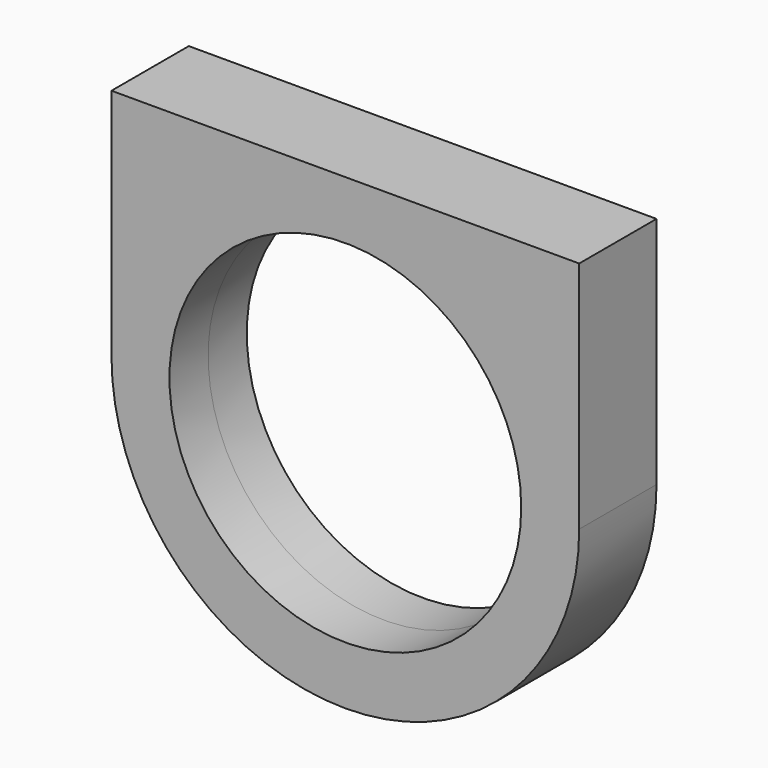
from build123d import *

# Parameters (mm, degrees)
F0_R     = 9.1
F1_DEPTH = 2.5


with BuildPart() as f1:
    # F0 (on Front) → F1 (new body)
    with BuildSketch(Plane.XZ):
        with BuildLine():
            ThreePointArc((0, 12.1), (-8.555992, 8.555992), (-12.1, 0))
            ThreePointArc((-12.1, 0), (0, -12.1), (12.1, 0))
            ThreePointArc((12.1, 0), (8.555992, 8.555992), (0, 12.1))
        make_face()
        Circle(F0_R, mode=Mode.SUBTRACT)
        with BuildLine():
            Line((-12.1, 12.1), (-12.1, 0))
            ThreePointArc((-12.1, 0), (-8.555992, 8.555992), (0, 12.1))
            Line((0, 12.1), (-12.1, 12.1))
        make_face()
        with BuildLine():
            ThreePointArc((0, 12.1), (8.555992, 8.555992), (12.1, 0))
            Line((12.1, 0), (12.1, 12.1))
            Line((12.1, 12.1), (0, 12.1))
        make_face()
    extrude(amount=F1_DEPTH)

    # F2: F1 across plane


with BuildPart() as f1_1:
    add(f1.part)
    add(f1.part.mirror(Plane.XZ))


solid = f1_1.part
